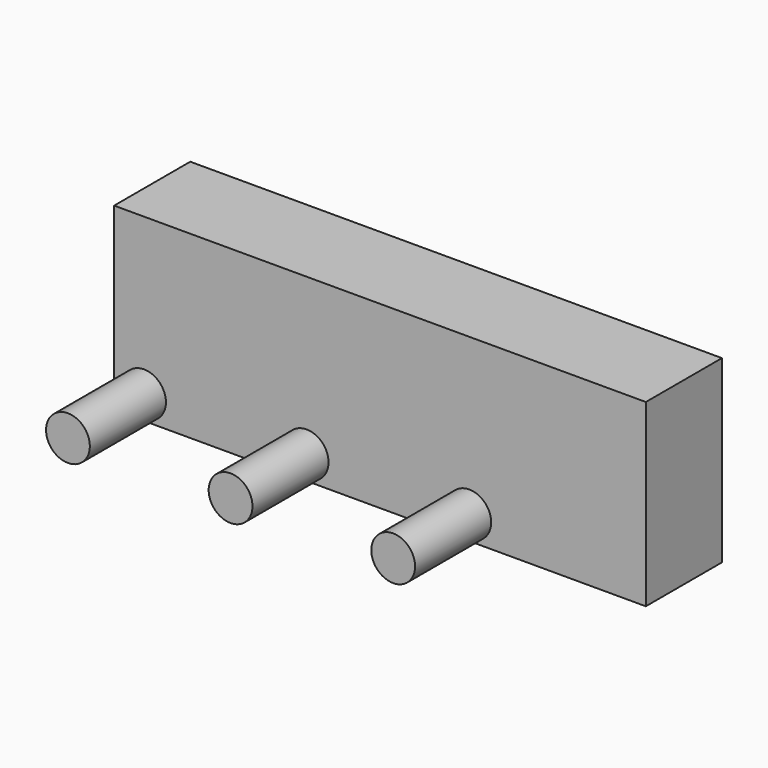
from build123d import *

# Parameters (mm, degrees)
F0_W     = 142.000898
F0_H     = 48.036786
F1_DEPTH = 25.4
F2_R     = 5.849573
F3_DEPTH = 25.4


with BuildPart() as f1:
    # F0 (on Front) → F1 (new body)
    with BuildSketch(Plane.XZ):
        with Locations((1.806505, 27.979008)):
            Rectangle(F0_W, F0_H)
    extrude(amount=F1_DEPTH)

    # F2 (on face) → F3 (join)
    with BuildSketch(Plane.XZ.offset(25.4)):
        with Locations((-61.215024, 10.251221)):
            Circle(F2_R)
        with Locations((-61.215024, 10.251221)):
            Circle(F2_R)
        with Locations((-17.781024, 10.251221)):
            Circle(F2_R)
        with Locations((25.652976, 10.251221)):
            Circle(F2_R)
    extrude(amount=F3_DEPTH)


solid = f1.part
